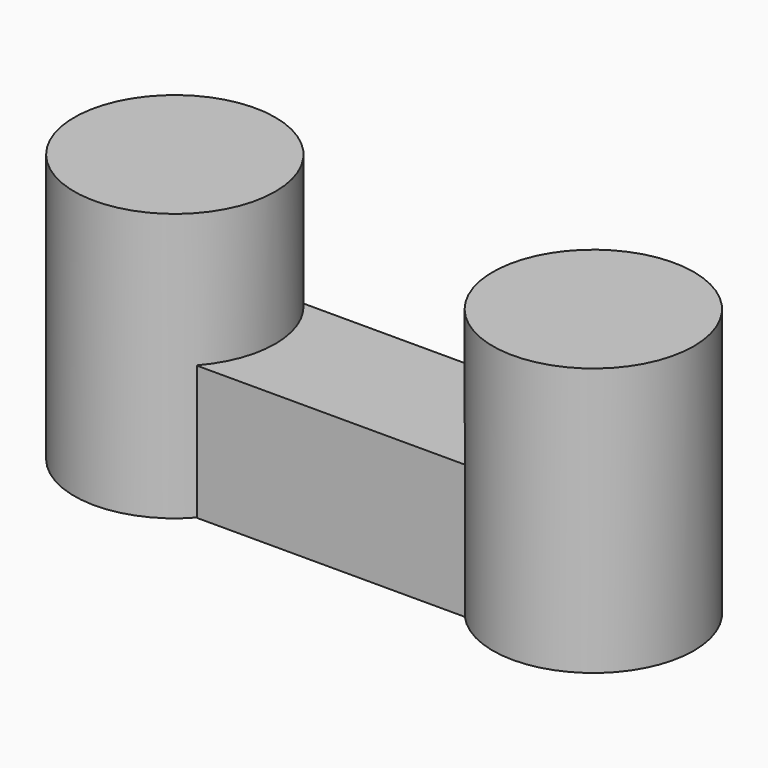
from build123d import *

# Parameters (mm, degrees)
F0_W     = 40
F0_H     = 20
F2_DEPTH = 20
F1_R     = 15
F3_DEPTH = 40


with BuildPart() as f2:
    # F0 (on Top) → F2 (new body)
    with BuildSketch(Plane.XY):
        Rectangle(F0_W, F0_H)
    extrude(amount=F2_DEPTH)

    # F1 (on Top) → F3 (join)
    with BuildSketch(Plane.XY):
        with Locations((-31.294566, 0)):
            Circle(F1_R)
        with Locations((31.157609, 0)):
            Circle(F1_R)
    extrude(amount=F3_DEPTH)


solid = f2.part
